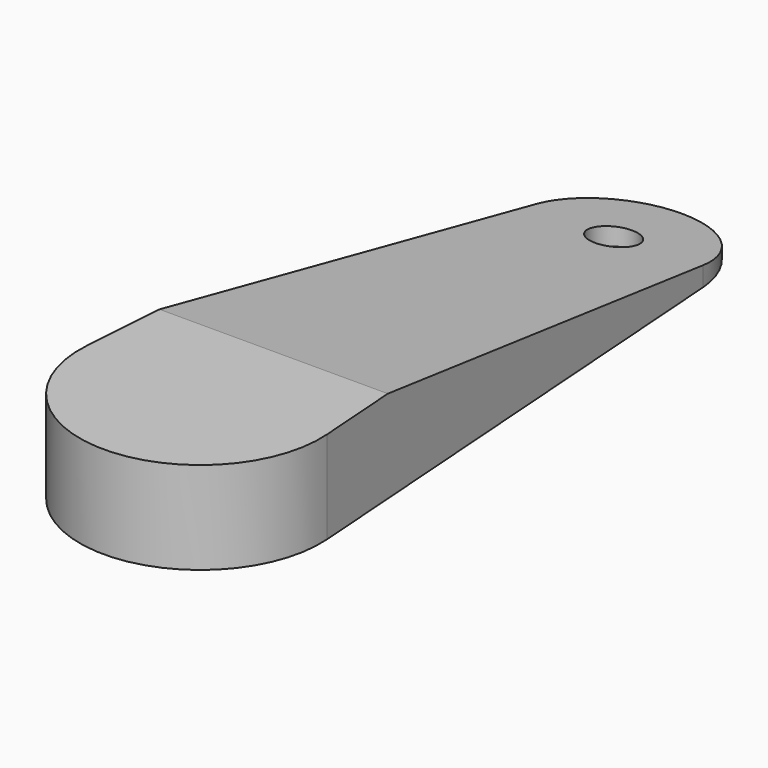
from build123d import *

# Parameters (mm, degrees)
F0_R     = 2.5
F1_DEPTH = 10
F3_DEPTH = 25


with BuildPart() as f1:
    # F0 (on Top) → F1 (new body)
    with BuildSketch(Plane.XY):
        with BuildLine():
            ThreePointArc((-13, 0), (0, -13.96424), (13, 0))
            Line((13, 0), (9, 55.85696))
            ThreePointArc((9, 55.85696), (0, 64.235504), (-9, 55.85696))
            Line((-9, 55.85696), (-13, 0))
        make_face()
        with Locations((0, 55)):
            Circle(F0_R, mode=Mode.SUBTRACT)
    extrude(amount=F1_DEPTH)

    # F2 (on Right) → F3 (cut, symmetric)
    with BuildSketch(Plane.YZ):
        Polygon((68.331851, 10), (9, 10), (68.331851, 0), align=None)
    extrude(amount=F3_DEPTH, both=True, mode=Mode.SUBTRACT)


solid = f1.part
